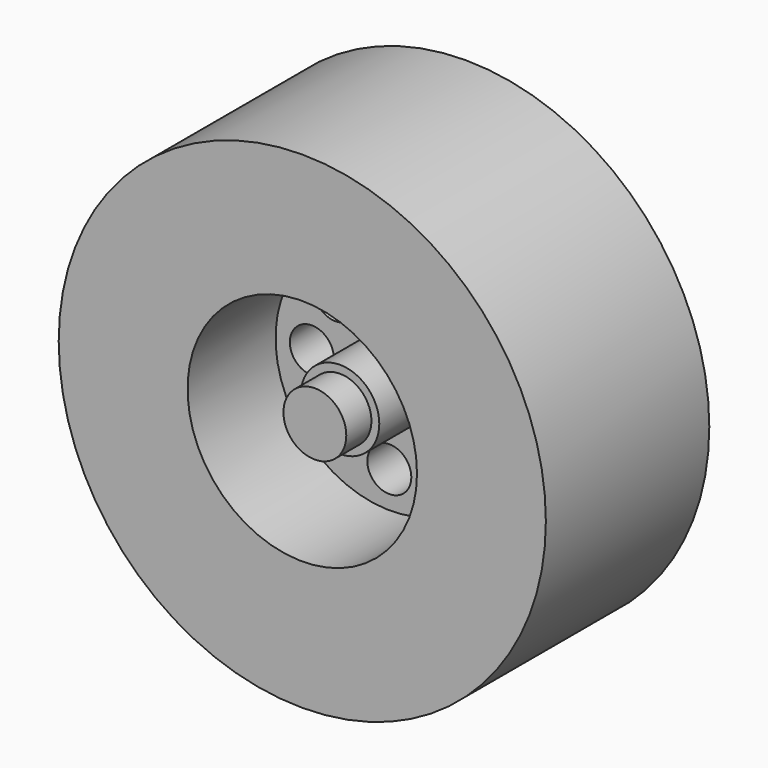
from build123d import *

# Parameters (mm, degrees)
F0_R      = 19.685
F0_R_2    = 10.16
F0_R_3    = 8.89
F1_DEPTH  = 24.892
F2_R      = 19.685
F2_R_2    = 3.175
F3_DEPTH  = 8.382
F4_R      = 9.271
F5_DEPTH  = 8.89
F6_R      = 3.175
F7_DEPTH  = 5.08
F8_R      = 1.778
F9_DEPTH  = 7.747
F10_R     = 2.54
F11_DEPTH = 2.54
F12_R     = 19.05
F12_R_2   = 10.16
F13_DEPTH = 12.7


with BuildPart() as f1:
    # F0 (on Front) → F1 (new body)
    with BuildSketch(Plane.XZ):
        with Locations((-28.321002, 34.417)):
            Circle(F0_R)
        with Locations((-28.321002, 34.417)):
            Circle(F0_R_2, mode=Mode.SUBTRACT)
        with Locations((-28.321002, 34.417)):
            Circle(F0_R_2)
        with Locations((-28.321002, 34.417)):
            Circle(F0_R_3, mode=Mode.SUBTRACT)
        with Locations((-28.321002, 34.417)):
            Circle(F0_R_3)
    extrude(amount=F1_DEPTH)

    # F2 (on face) → F3 (cut)
    with BuildSketch(Plane(origin=(0, 0, 0), x_dir=(-1, 0, 0), z_dir=(0, 1, 0))):
        with Locations((28.321002, 34.417)):
            Circle(F2_R)
        with Locations((28.321002, 34.417)):
            Circle(F2_R_2, mode=Mode.SUBTRACT)
    extrude(amount=-F3_DEPTH, mode=Mode.SUBTRACT)

    # F4 (on face) → F5 (cut)
    with BuildSketch(Plane.XZ.offset(24.892)):
        with Locations((-28.321002, 34.417)):
            Circle(F4_R)
    extrude(amount=-F5_DEPTH, mode=Mode.SUBTRACT)

    # F6 (on face) → F7 (join)
    with BuildSketch(Plane.XZ.offset(16.002)):
        with Locations((-28.321002, 34.417)):
            Circle(F6_R)
    extrude(amount=F7_DEPTH)

    # F8 (on face) → F9 (cut)
    with BuildSketch(Plane.XZ.offset(16.002)):
        with Locations((-32.749631, 38.955461)):
            Circle(F8_R)
        with Locations((-28.243339, 40.75769)):
            Circle(F8_R)
        with Locations((-23.782541, 38.845629)):
            Circle(F8_R)
        with Locations((-21.980312, 34.339337)):
            Circle(F8_R)
        with Locations((-23.892373, 29.878539)):
            Circle(F8_R)
        with Locations((-28.398665, 28.07631)):
            Circle(F8_R)
        with Locations((-32.859463, 29.988371)):
            Circle(F8_R)
        with Locations((-34.661692, 34.494663)):
            Circle(F8_R)
    extrude(amount=-F9_DEPTH, mode=Mode.SUBTRACT)

    # F10 (on face) → F11 (join)
    with BuildSketch(Plane.XZ.offset(21.082)):
        with Locations((-28.321002, 34.417)):
            Circle(F10_R)
    extrude(amount=F11_DEPTH)

    # F12 (on face) → F13 (cut)
    with BuildSketch(Plane(origin=(0, -8.382, 0), x_dir=(-1, 0, 0), z_dir=(0, 1, 0))):
        with Locations((28.321002, 34.417)):
            Circle(F12_R)
        with Locations((28.321002, 34.417)):
            Circle(F12_R_2, mode=Mode.SUBTRACT)
    extrude(amount=-F13_DEPTH, mode=Mode.SUBTRACT)


solid = f1.part
